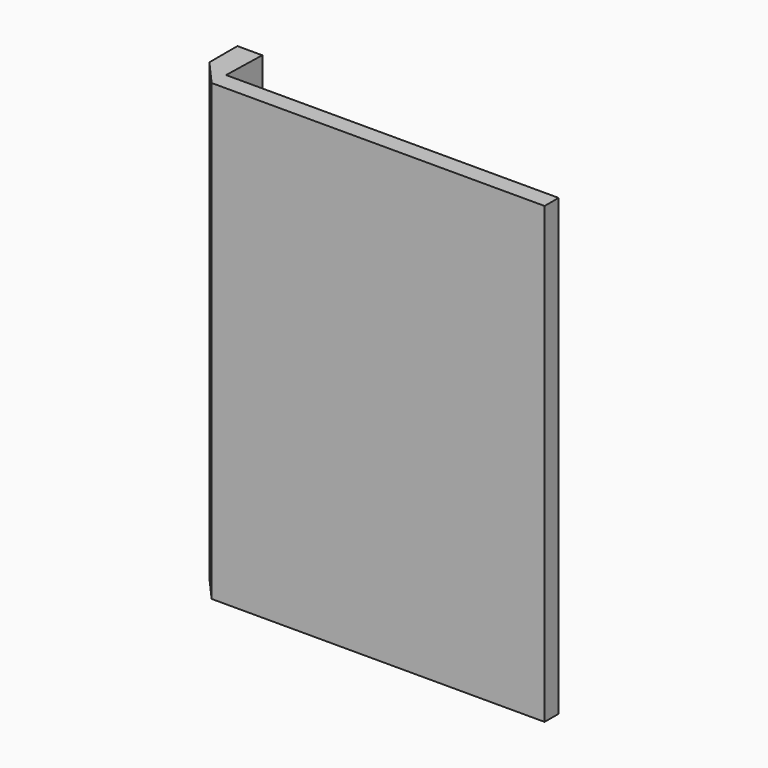
from build123d import *

# Parameters (mm, degrees)
F0_W     = 1447.8
F0_H     = 1974.85
F1_DEPTH = 76.2
F3_DEPTH = 1974.85


with BuildPart() as f1:
    # F0 (on Front) → F1 (new body)
    with BuildSketch(Plane.XZ):
        Rectangle(F0_W, F0_H)
    extrude(amount=-F1_DEPTH)

    # F2 (on face) → F3 (join)
    with BuildSketch(Plane.XY.offset(987.425)):
        Polygon((-824.808449, 114.207026), (-723.9, 0), (-716.858449, 266.607026), (-824.808449, 266.607026), align=None)
    extrude(amount=-F3_DEPTH)


solid = f1.part
